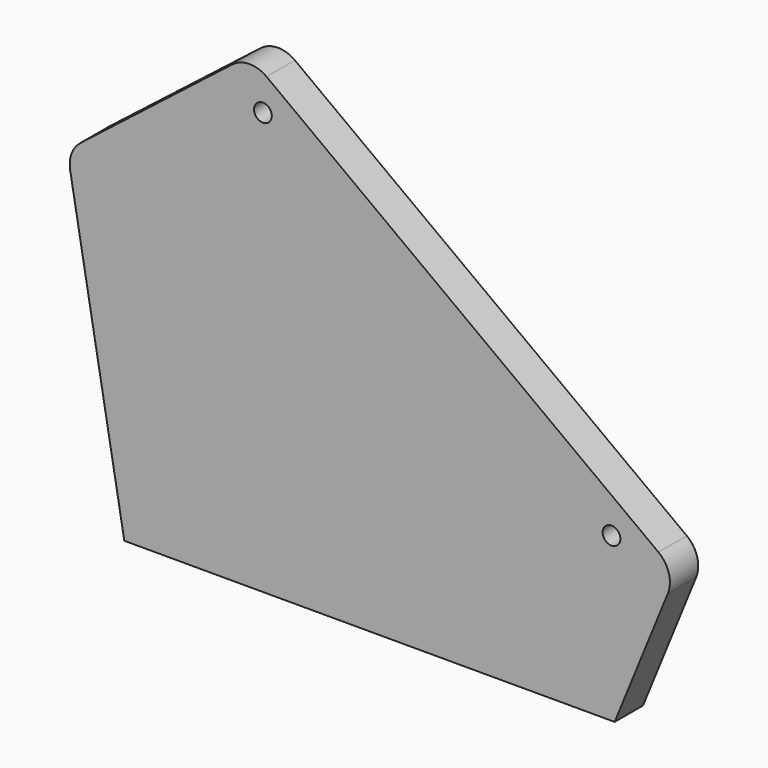
from build123d import *

# Parameters (mm, degrees)
F1_DEPTH = 10


with BuildPart() as f1:
    # F0 (on Front) → F1 (new body)
    with BuildSketch(Plane.XZ):
        with BuildLine():
            ThreePointArc((-40.404323, 85.822283), (-45.270491, 87.40005), (-50.097735, 85.706932))
            Line((-50.097735, 85.706932), (-92.858958, 52.329363))
            ThreePointArc((-92.858958, 52.329363), (-95.403316, 48.894802), (-95.816141, 44.640446))
            Line((-95.816141, 44.640446), (-80.531795, -42.46692))
            Line((-80.531795, -42.46692), (57.774524, -42.46692))
            Line((57.774524, -42.46692), (72.766024, -5.744804))
            ThreePointArc((72.766024, -5.744804), (73.065081, -0.570969), (70.130421, 3.700537))
            Line((70.130421, 3.700537), (-40.404323, 85.822283))
        make_face()
        with BuildLine():
            ThreePointArc((59.394839, 3.512842), (56.10964, 1.13935), (54.888068, 5.003771))
            ThreePointArc((54.888068, 5.003771), (57.680037, 5.886333), (59.394839, 3.512842))
        make_face(mode=Mode.SUBTRACT)
        with BuildLine():
            ThreePointArc((-39.430158, 75.077462), (-43.810421, 77.35359), (-38.936929, 76.568392))
            ThreePointArc((-38.936929, 76.568392), (-39.063437, 75.783193), (-39.430158, 75.077462))
        make_face(mode=Mode.SUBTRACT)
    extrude(amount=F1_DEPTH)


solid = f1.part
